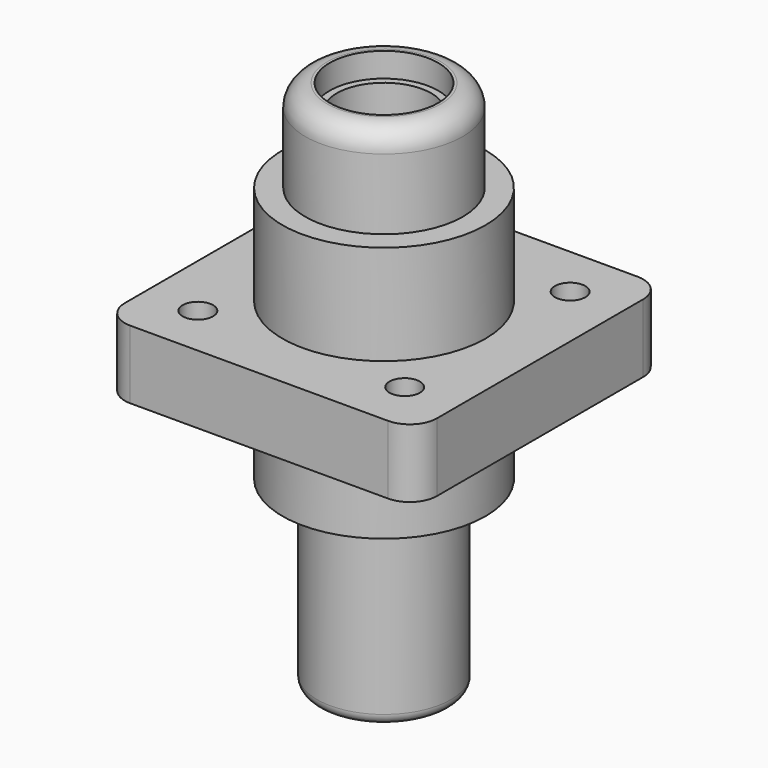
from build123d import *

# Parameters (mm, degrees)
F0_W      = 57.5
F0_H      = 57.5
F0_R      = 2.8
F0_R_2    = 18.7
F1_DEPTH  = 12.6
F0_R_3    = 14.5
F2_DEPTH  = 31
F0_R_4    = 10
F3_DEPTH  = 48
F0_R_5    = 8.7
F4_DEPTH  = 43.5
F5_DEPTH  = 17.4
F6_R      = 4
F7_R      = 5
F8_R      = 12.35
F9_DEPTH  = 50
F8_R_2    = 18.7
F10_DEPTH = 16.2
F11_R     = 2


with BuildPart() as f1:
    # F0 (on Top) → F1 (new body)
    with BuildSketch(Plane.XY):
        Rectangle(F0_W, F0_H)
        with Locations((-19.05, -19.05)):
            Circle(F0_R, mode=Mode.SUBTRACT)
        with Locations((19.05, -19.05)):
            Circle(F0_R, mode=Mode.SUBTRACT)
        with Locations((-19.05, 19.05)):
            Circle(F0_R, mode=Mode.SUBTRACT)
        Circle(F0_R_2, mode=Mode.SUBTRACT)
        with Locations((19.05, 19.05)):
            Circle(F0_R, mode=Mode.SUBTRACT)
    extrude(amount=F1_DEPTH)

    # F0 (on Top) → F2 (join)
    with BuildSketch(Plane.XY):
        Circle(F0_R_2)
        Circle(F0_R_3, mode=Mode.SUBTRACT)
    extrude(amount=F2_DEPTH)

    # F0 (on Top) → F3 (join)
    with BuildSketch(Plane.XY):
        Circle(F0_R_3)
        Circle(F0_R_4, mode=Mode.SUBTRACT)
    extrude(amount=F3_DEPTH)

    # F6
    f6_edges = [f1.edges().sort_by_distance(p)[0] for p in [
        (-14.5, 0, 48),
    ]]
    fillet(f6_edges, radius=F6_R)

    # F7
    f7_edges = [f1.edges().sort_by_distance(p)[0] for p in [
        (-28.75, -28.75, 6.3),
        (28.75, -28.75, 6.3),
        (28.75, 28.75, 6.3),
        (-28.75, 28.75, 6.3),
    ]]
    fillet(f7_edges, radius=F7_R)

    # F8 (on face) → F10 (join)
    with BuildSketch(Plane.XY):
        Circle(F8_R_2)
        Circle(F8_R, mode=Mode.SUBTRACT)
    extrude(amount=-F10_DEPTH)


with BuildPart() as f4:
    # F0 (on Top) → F4 (new body)
    with BuildSketch(Plane.XY):
        Circle(F0_R_4)
        Circle(F0_R_5, mode=Mode.SUBTRACT)
    extrude(amount=F4_DEPTH)


with BuildPart() as f5:
    # F0 (on Top) → F5 (new body)
    with BuildSketch(Plane.XY):
        Circle(F0_R_5)
    extrude(amount=F5_DEPTH)


with BuildPart() as f9:
    # F8 (on face) → F9 (new body)
    with BuildSketch(Plane.XY):
        Circle(F8_R)
    extrude(amount=-F9_DEPTH)

    # F11
    f11_edges = [f9.edges().sort_by_distance(p)[0] for p in [
        (-12.35, 0, -50),
    ]]
    fillet(f11_edges, radius=F11_R)


solid = Compound([f1.part, f4.part, f5.part, f9.part])
